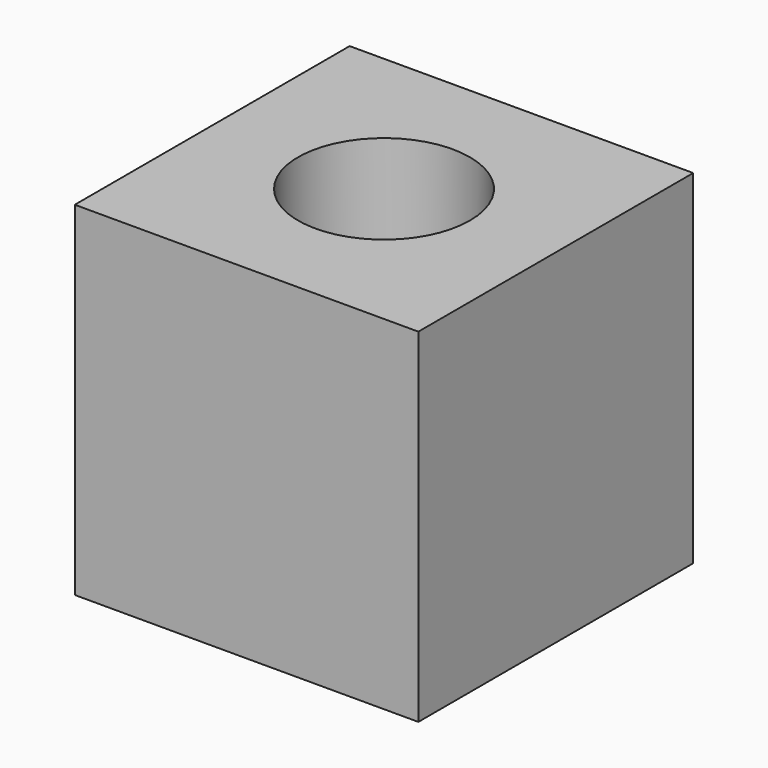
from build123d import *

# Parameters (mm, degrees)
F0_W     = 50.8
F0_H     = 50.8
F1_DEPTH = 25.4
F2_R     = 12.7
F3_DEPTH = 50.8


with BuildPart() as f1:
    # F0 (on Top) → F1 (new body, symmetric)
    with BuildSketch(Plane.XY):
        Rectangle(F0_W, F0_H)
    extrude(amount=F1_DEPTH, both=True)

    # F2 (on face) → F3 (cut, through all)
    with BuildSketch(Plane.XY.offset(25.4)):
        Circle(F2_R)
    extrude(amount=-F3_DEPTH, mode=Mode.SUBTRACT)


solid = f1.part
